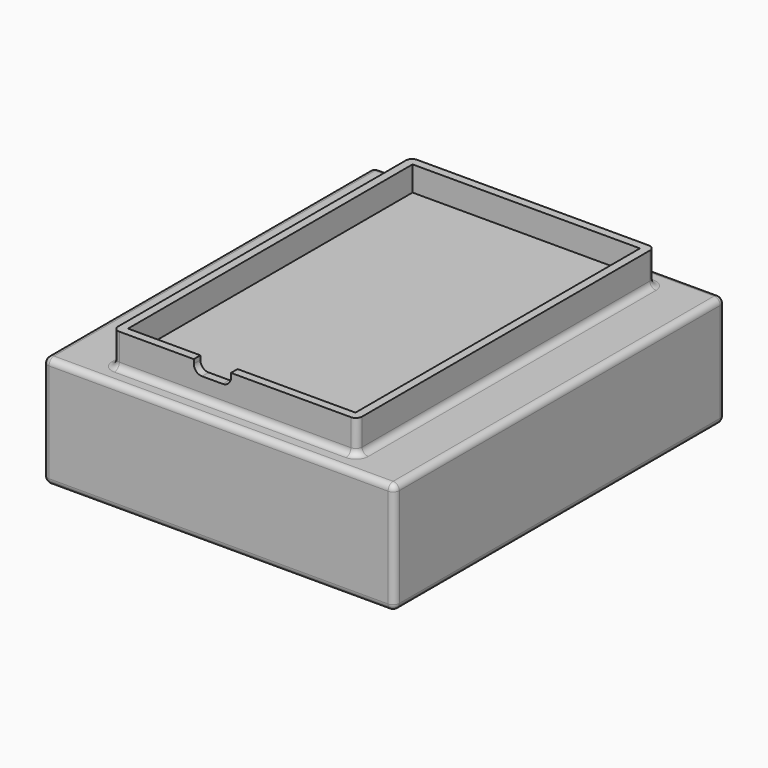
from build123d import *

# Parameters (mm, degrees)
BOX_W           = 59
BOX_H           = 90
BOX_DEPTH       = 8
SKETCH_W        = 55
SKETCH_H        = 86
POCKET_DEPTH    = 6
POCKET001_DEPTH = 2
SKETCH006_W     = 85
SKETCH006_H     = 100
PAD002_DEPTH    = 27
POCKET004_DEPTH = 98
FILLET_R        = 1.5
FILLET002_R     = 1.5


with BuildPart() as part:
    # Box → Box (join)
    with BuildSketch(Plane.XY):
        with Locations((29.5, 45)):
            Rectangle(BOX_W, BOX_H)
    extrude(amount=BOX_DEPTH)

    # Sketch (on Face6 of Box) → Pocket (cut)
    with BuildSketch(Plane.XY.offset(8)):
        with Locations((29.5, 45)):
            Rectangle(SKETCH_W, SKETCH_H)
    extrude(amount=-POCKET_DEPTH, mode=Mode.SUBTRACT)

    # Sketch001 (on Face2 of Pocket) → Pocket001 (cut)
    with BuildSketch(Plane.XZ):
        with BuildLine():
            Line((28.5, 8), (28.5, 7))
            ThreePointArc((26.5, 5), (27.914214, 5.585786), (28.5, 7))
            Line((26.5, 5), (21.5, 5))
            ThreePointArc((19.5, 7), (20.085786, 5.585786), (21.5, 5))
            Line((19.5, 7), (19.5, 8))
            Line((19.5, 8), (28.5, 8))
        make_face()
    extrude(amount=-POCKET001_DEPTH, mode=Mode.SUBTRACT)

    # Sketch006 (on Face5 of Pocket001) → Pad002 (join)
    with BuildSketch(Plane(origin=(0, 0, 0), x_dir=(1, 0, 0), z_dir=(0, 0, -1))):
        with Locations((29.5, -45)):
            Rectangle(SKETCH006_W, SKETCH006_H)
    extrude(amount=PAD002_DEPTH)

    # Sketch007 (on Face18 of Pad002) → Pocket004 (cut)
    with BuildSketch(Plane(origin=(0, 95, 0), x_dir=(-1, 0, 0), z_dir=(0, 1, 0))):
        with BuildLine():
            Line((-70, -7), (-70, -20))
            ThreePointArc((-70, -20), (-68.535534, -23.535534), (-65, -25))
            Line((-65, -25), (6, -25))
            ThreePointArc((6, -25), (9.535534, -23.535534), (11, -20))
            Line((11, -20), (11, -7))
            ThreePointArc((11, -7), (9.535534, -3.464466), (6, -2))
            Line((6, -2), (-65, -2))
            ThreePointArc((-65, -2), (-68.535534, -3.464466), (-70, -7))
        make_face()
    extrude(amount=-POCKET004_DEPTH, mode=Mode.SUBTRACT)

    # Fillet
    fillet_edges = [part.edges().sort_by_distance(p)[0] for p in [
        (0, 0, 4),
        (-13, -5, -13.5),
        (72, -5, -13.5),
        (59, 0, 4),
        (0, 90, 4),
        (-13, 95, -13.5),
        (59, 90, 4),
        (72, 95, -13.5),
    ]]
    fillet(fillet_edges, radius=FILLET_R)

    # Fillet002
    fillet002_edges = [part.edges().sort_by_distance(p)[0] for p in [
        (59, 45, 0),
        (72, 45, 0),
        (72, 45, -27),
    ]]
    fillet(fillet002_edges, radius=FILLET002_R)


solid = part.part
